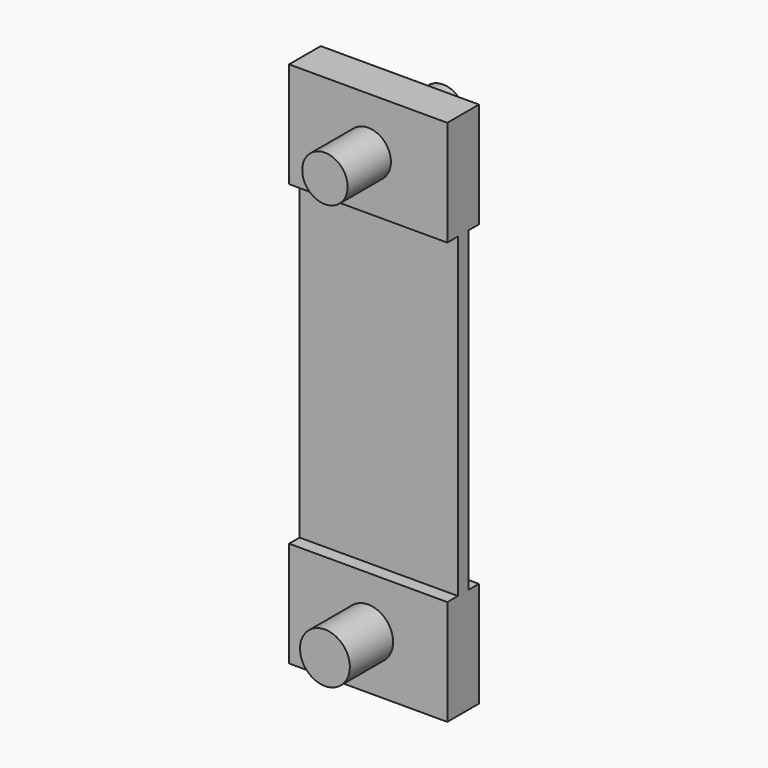
from build123d import *

# Parameters (mm, degrees)
F0_W     = 9.525
F0_H     = 19.05
F1_DEPTH = 0.396875
F0_H_2   = 6.35
F0_R     = 1.5
F0_R_2   = 1.367696
F2_DEPTH = 1.190625
F3_DEPTH = 4.445


with BuildPart() as f1:
    # F0 (on Front) → F1 (new body, symmetric)
    with BuildSketch(Plane.XZ):
        with Locations((-25.237318, 31.262366)):
            Rectangle(F0_W, F0_H)
    extrude(amount=F1_DEPTH, both=True)

    # F0 (on Front) → F2 (join, symmetric)
    with BuildSketch(Plane.XZ):
        with Locations((-25.237318, 18.562366)):
            Rectangle(F0_W, F0_H_2)
        with Locations((-25.237318, 18.562366)):
            Circle(F0_R, mode=Mode.SUBTRACT)
        with Locations((-25.237318, 43.962366)):
            Rectangle(F0_W, F0_H_2)
        with Locations((-25.237318, 43.962366)):
            Circle(F0_R_2, mode=Mode.SUBTRACT)
    extrude(amount=F2_DEPTH, both=True)

    # F0 (on Front) → F3 (join, symmetric)
    with BuildSketch(Plane.XZ):
        with Locations((-25.237318, 43.962366)):
            Circle(F0_R_2)
        with Locations((-25.237318, 18.562366)):
            Circle(F0_R)
    extrude(amount=F3_DEPTH, both=True)


solid = f1.part
